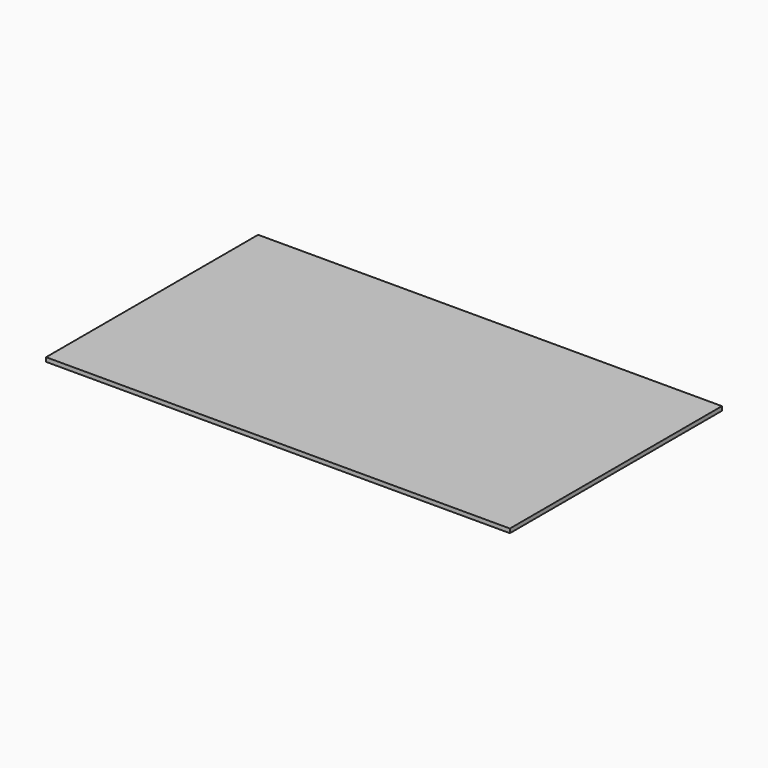
from build123d import *

# Parameters (mm, degrees)
F0_W     = 1400
F0_H     = 800
F1_DEPTH = 25
F2_SIZE2 = 12.5
F2_SIZE  = 40


with BuildPart() as f1:
    # F0 (on Top) → F1 (new body)
    with BuildSketch(Plane.XY):
        with Locations((-700, 400)):
            Rectangle(F0_W, F0_H)
    extrude(amount=F1_DEPTH)

    # F2
    f2_edges = [f1.edges().sort_by_distance(p)[0] for p in [
        (-700, 0, 0),
        (0, 400, 0),
        (-700, 800, 0),
        (-1400, 400, 0),
    ]]
    f2_side = f1.faces().sort_by_distance((-700, 400, 0))[0]
    chamfer(f2_edges, length=F2_SIZE, length2=F2_SIZE2, reference=f2_side)


solid = f1.part
